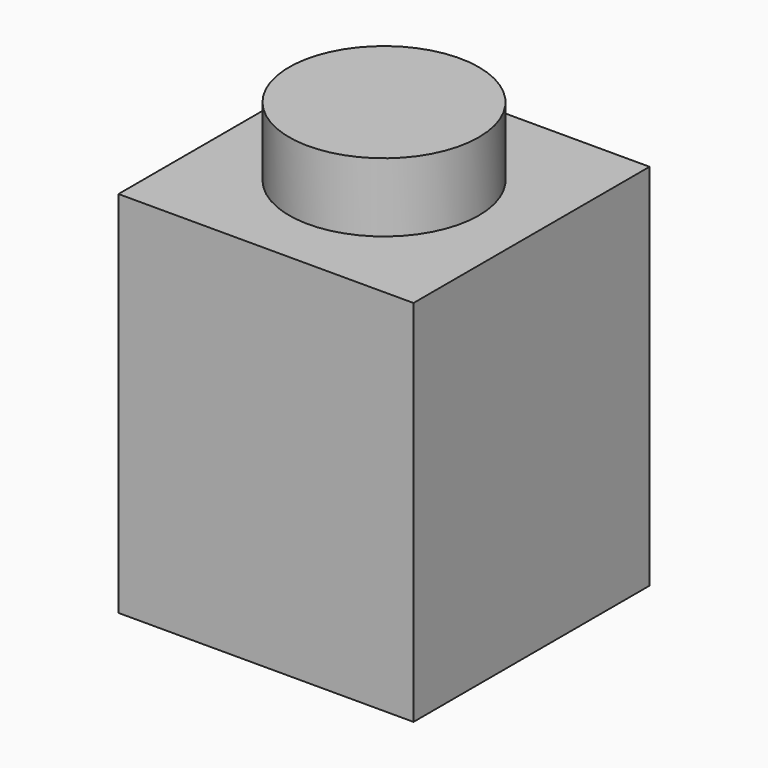
from build123d import *

# Parameters (mm, degrees)
F0_W     = 7.62
F0_H     = 7.620002
F1_DEPTH = 4.7625
F2_R     = 2.4511
F3_DEPTH = 1.778
F4_W     = 4.572
F4_H     = 4.572002
F5_DEPTH = 8.382


with BuildPart() as f1:
    # F0 (on Top) → F1 (new body, symmetric)
    with BuildSketch(Plane.XY):
        Rectangle(F0_W, F0_H)
    extrude(amount=F1_DEPTH, both=True)

    # F2 (on face) → F3 (join)
    with BuildSketch(Plane.XY.offset(4.7625)):
        Circle(F2_R)
    extrude(amount=F3_DEPTH)

    # F4 (on face) → F5 (cut)
    with BuildSketch(Plane(origin=(0, 0, -4.7625), x_dir=(1, 0, 0), z_dir=(0, 0, -1))):
        Rectangle(F4_W, F4_H)
    extrude(amount=-F5_DEPTH, mode=Mode.SUBTRACT)


solid = f1.part
